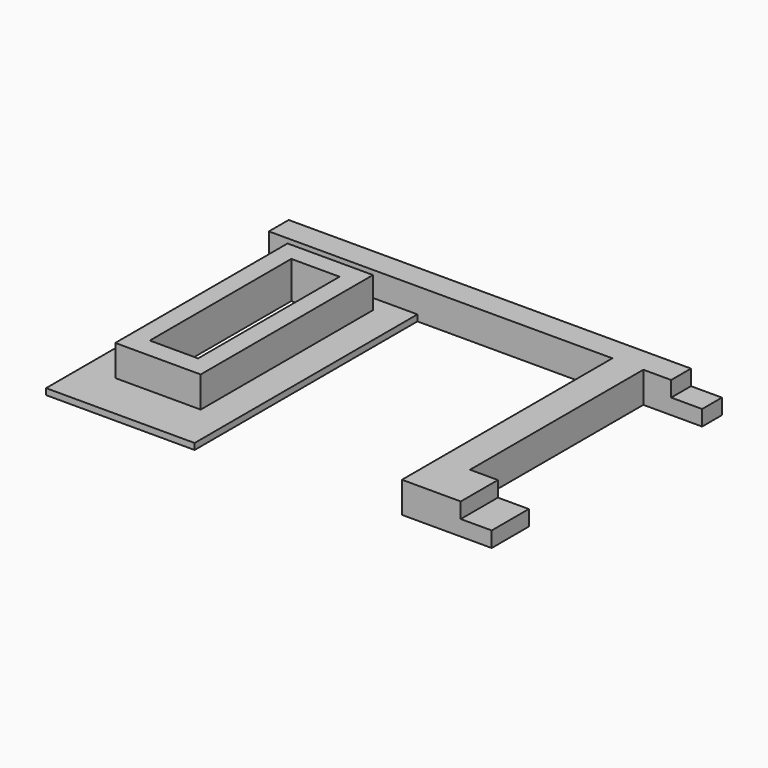
from build123d import *

# Parameters (mm, degrees)
PAD_DEPTH       = 10
SKETCH002_W     = 10
SKETCH002_H     = 93
POCKET_DEPTH    = 5
SKETCH003_W     = 48
SKETCH003_H     = 90
PAD001_DEPTH    = 2
SKETCH004_W     = 27.6
SKETCH004_H     = 69.6
PAD002_DEPTH    = 10
SKETCH005_W     = 15.6
SKETCH005_H     = 57.150113
POCKET001_DEPTH = 15


with BuildPart() as body:
    # Sketch → Pad (new body)
    with BuildSketch(Plane.XY):
        Polygon((140, 8), (0, 8), (0, 0), (111, 0), (111, -85), (121, -85), (140, -85), (140, -70), (121, -70), (121, 0), (140, 0), align=None)
    extrude(amount=PAD_DEPTH)

    # Sketch002 (on Face13 of Pad) → Pocket (cut)
    with BuildSketch(Plane.XY.offset(10)):
        with Locations((135, -38.5)):
            Rectangle(SKETCH002_W, SKETCH002_H)
    extrude(amount=-POCKET_DEPTH, mode=Mode.SUBTRACT)


with BuildPart() as body001:
    # Sketch003 → Pad001 (new body)
    with BuildSketch(Plane.XY):
        with Locations((24, -45)):
            Rectangle(SKETCH003_W, SKETCH003_H)
    extrude(amount=PAD001_DEPTH)

    # Sketch004 (on Face6 of Pad001) → Pad002 (join)
    with BuildSketch(Plane.XY.offset(2)):
        with Locations((24, -40)):
            Rectangle(SKETCH004_W, SKETCH004_H)
    extrude(amount=PAD002_DEPTH)

    # Sketch005 (on Face11 of Pad002) → Pocket001 (cut)
    with BuildSketch(Plane.XY.offset(12)):
        with Locations((24, -39.775056)):
            Rectangle(SKETCH005_W, SKETCH005_H)
    extrude(amount=-POCKET001_DEPTH, mode=Mode.SUBTRACT)


solid = Compound([body.part, body001.part])
